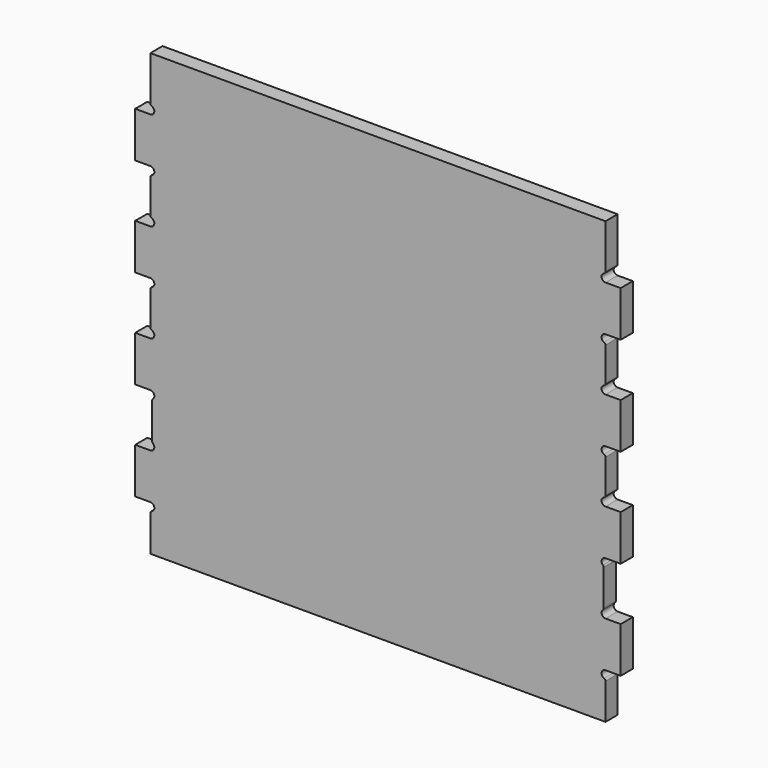
from build123d import *

# Parameters (mm, degrees)
F0_W     = 406.4
F0_H     = 369.0112
F1_DEPTH = 12.7
F3_DEPTH = 25.4


with BuildPart() as f1:
    # F0 (on Front) → F1 (new body)
    with BuildSketch(Plane.XZ):
        with Locations((203.2, 184.5056)):
            Rectangle(F0_W, F0_H)
    extrude(amount=F1_DEPTH)

    # F2 (on face) → F3 (cut)
    with BuildSketch(Plane.XZ.offset(12.7)):
        with BuildLine():
            Line((0, 38.1), (0, 0))
            Line((0, 0), (12.7, 0))
            Line((12.7, 0), (12.7, 29.866212))
            ThreePointArc((12.7, 29.866212), (13.043512, 30.996713), (13.957905, 31.744988))
            ThreePointArc((13.957905, 31.744988), (15.939155, 35.439155), (12.7, 38.1))
            Line((12.7, 38.1), (0, 38.1))
        make_face()
        with BuildLine():
            Line((0, 120.65), (0, 76.2))
            Line((0, 76.2), (12.7, 76.2))
            ThreePointArc((12.7, 76.2), (15.791481, 78.341851), (14.872368, 81.988769))
            ThreePointArc((14.872368, 81.988769), (14.359145, 82.678683), (14.177211, 83.519088))
            Line((14.177211, 83.519088), (14.177211, 113.330912))
            ThreePointArc((14.177211, 113.330912), (14.359145, 114.171317), (14.872368, 114.861231))
            ThreePointArc((14.872368, 114.861231), (15.791481, 118.508149), (12.7, 120.65))
            Line((12.7, 120.65), (0, 120.65))
        make_face()
        with BuildLine():
            Line((12.7, 203.2), (0, 203.2))
            Line((0, 203.2), (0, 158.75))
            Line((0, 158.75), (12.7, 158.75))
            ThreePointArc((12.7, 158.75), (15.939155, 161.410845), (13.957905, 165.105012))
            ThreePointArc((13.957905, 165.105012), (13.043512, 165.853287), (12.7, 166.983788))
            Line((12.7, 166.983788), (12.7, 194.966212))
            ThreePointArc((12.7, 194.966212), (13.043512, 196.096713), (13.957905, 196.844988))
            ThreePointArc((13.957905, 196.844988), (15.939155, 200.539155), (12.7, 203.2))
        make_face()
        with BuildLine():
            Line((12.7, 285.75), (0, 285.75))
            Line((0, 285.75), (0, 241.3))
            Line((0, 241.3), (12.7, 241.3))
            ThreePointArc((12.7, 241.3), (15.939155, 243.960845), (13.957905, 247.655012))
            ThreePointArc((13.957905, 247.655012), (13.043512, 248.403287), (12.7, 249.533788))
            Line((12.7, 249.533788), (12.7, 277.516212))
            ThreePointArc((12.7, 277.516212), (13.043512, 278.646713), (13.957905, 279.394988))
            ThreePointArc((13.957905, 279.394988), (15.939155, 283.089155), (12.7, 285.75))
        make_face()
        with BuildLine():
            Line((0, 369.0112), (0, 323.85))
            Line((0, 323.85), (12.7, 323.85))
            ThreePointArc((12.7, 323.85), (15.939155, 326.510845), (13.957905, 330.205012))
            ThreePointArc((13.957905, 330.205012), (13.043512, 330.953287), (12.7, 332.083788))
            Line((12.7, 332.083788), (12.7, 369.0112))
            Line((12.7, 369.0112), (0, 369.0112))
        make_face()
        with BuildLine():
            Line((393.7, 277.516212), (393.7, 249.533788))
            ThreePointArc((393.7, 249.533788), (393.356488, 248.403287), (392.442095, 247.655012))
            ThreePointArc((392.442095, 247.655012), (390.460845, 243.960845), (393.7, 241.3))
            Line((393.7, 241.3), (406.4, 241.3))
            Line((406.4, 241.3), (406.4, 285.75))
            Line((406.4, 285.75), (393.7, 285.75))
            ThreePointArc((393.7, 285.75), (390.460845, 283.089155), (392.442095, 279.394988))
            ThreePointArc((392.442095, 279.394988), (393.356488, 278.646713), (393.7, 277.516212))
        make_face()
        with BuildLine():
            Line((393.7, 194.966212), (393.7, 166.983788))
            ThreePointArc((393.7, 166.983788), (393.356488, 165.853287), (392.442095, 165.105012))
            ThreePointArc((392.442095, 165.105012), (390.460845, 161.410845), (393.7, 158.75))
            Line((393.7, 158.75), (406.4, 158.75))
            Line((406.4, 158.75), (406.4, 203.2))
            Line((406.4, 203.2), (393.7, 203.2))
            ThreePointArc((393.7, 203.2), (390.460845, 200.539155), (392.442095, 196.844988))
            ThreePointArc((392.442095, 196.844988), (393.356488, 196.096713), (393.7, 194.966212))
        make_face()
        with BuildLine():
            ThreePointArc((393.7, 38.1), (390.460845, 35.439155), (392.442095, 31.744988))
            ThreePointArc((392.442095, 31.744988), (393.356488, 30.996713), (393.7, 29.866212))
            Line((393.7, 29.866212), (393.7, 0))
            Line((393.7, 0), (406.4, 0))
            Line((406.4, 0), (406.4, 38.1))
            Line((406.4, 38.1), (393.7, 38.1))
        make_face()
        with BuildLine():
            ThreePointArc((391.527632, 81.988769), (390.608519, 78.341851), (393.7, 76.2))
            Line((393.7, 76.2), (406.4, 76.2))
            Line((406.4, 76.2), (406.4, 120.65))
            Line((406.4, 120.65), (393.7, 120.65))
            ThreePointArc((393.7, 120.65), (390.608519, 118.508149), (391.527632, 114.861231))
            ThreePointArc((391.527632, 114.861231), (392.040855, 114.171317), (392.222789, 113.330912))
            Line((392.222789, 113.330912), (392.222789, 83.519088))
            ThreePointArc((392.222789, 83.519088), (392.040855, 82.678683), (391.527632, 81.988769))
        make_face()
        with BuildLine():
            ThreePointArc((392.442095, 330.205012), (390.460845, 326.510845), (393.7, 323.85))
            Line((393.7, 323.85), (406.4, 323.85))
            Line((406.4, 323.85), (406.4, 369.0112))
            Line((406.4, 369.0112), (393.7, 369.0112))
            Line((393.7, 369.0112), (393.7, 332.083788))
            ThreePointArc((393.7, 332.083788), (393.356488, 330.953287), (392.442095, 330.205012))
        make_face()
    extrude(amount=-F3_DEPTH, mode=Mode.SUBTRACT)


solid = f1.part
